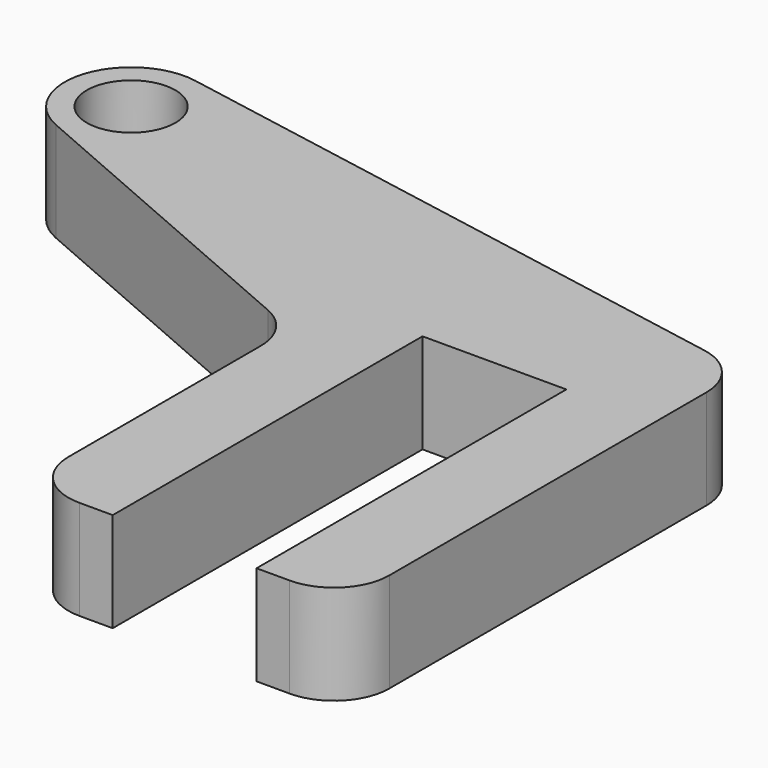
from build123d import *

# Parameters (mm, degrees)
F0_R     = 4
F1_DEPTH = 9
F2_R     = 5


with BuildPart() as f1:
    # F0 (on Top) → F1 (new body)
    with BuildSketch(Plane.XY):
        with BuildLine():
            Line((-40.391175, 44.074847), (-8, 30))
            Line((-8, 30), (-8, 45))
            Line((-8, 45), (21, 45))
            Line((21, 45), (-36.931732, 55.481916))
            ThreePointArc((-36.931732, 55.481916), (-33.395132, 53.424234), (-32, 49.577781))
            ThreePointArc((-32, 49.577781), (-34.709639, 44.560459), (-40.391175, 44.074847))
        make_face()
        with BuildLine():
            ThreePointArc((-36.931732, 55.481916), (-43.741761, 51.319096), (-40.391175, 44.074847))
            ThreePointArc((-40.391175, 44.074847), (-34.709639, 44.560459), (-32, 49.577781))
            ThreePointArc((-32, 49.577781), (-33.395132, 53.424234), (-36.931732, 55.481916))
        make_face()
        with Locations((-38, 49.577781)):
            Circle(F0_R, mode=Mode.SUBTRACT)
        Polygon((-8, 0), (0, 0), (0, 35), (13, 35), (13, 0), (21, 0), (21, 45), (-8, 45), (-8, 30), align=None)
    extrude(amount=F1_DEPTH)

    # F2
    f2_edges = [f1.edges().sort_by_distance(p)[0] for p in [
        (-8, 30, 4.5),
        (21, 45, 4.5),
        (-8, 0, 4.5),
        (21, 0, 4.5),
    ]]
    fillet(f2_edges, radius=F2_R)


solid = f1.part
